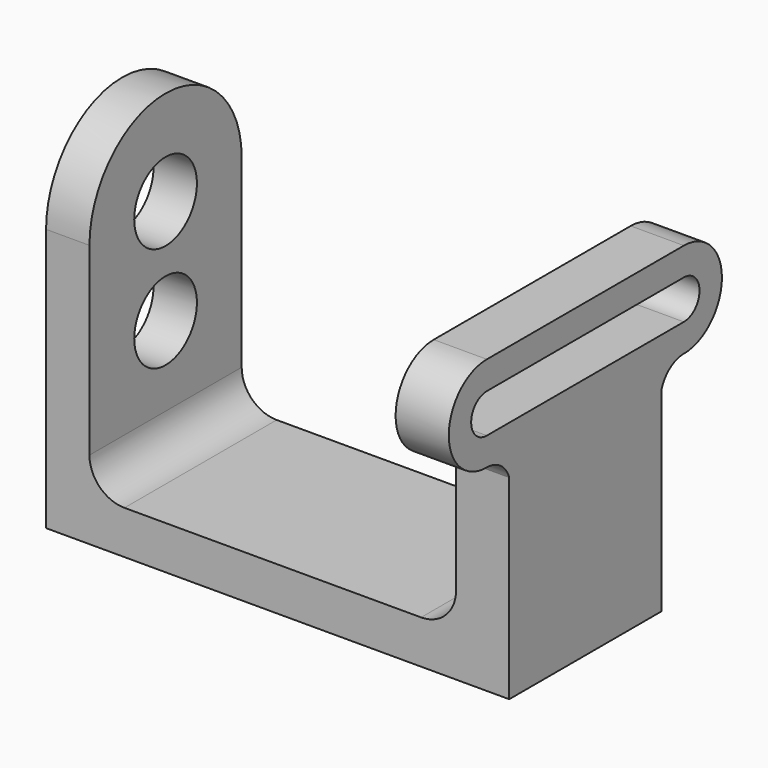
from build123d import *

# Parameters (mm, degrees)
F1_DEPTH = 34.544
F2_W     = 34.544
F2_H     = 3.556
F3_DEPTH = 9.652
F4_DEPTH = 9.652
F6_DEPTH = 7.874
F5_R     = 7.112
F7_DEPTH = 7.874


with BuildPart() as f1:
    # F0 (on Front) → F1 (new body)
    with BuildSketch(Plane.XZ):
        with BuildLine():
            Line((0, 47.752), (0, 0))
            Line((0, 0), (84.074, 0))
            Line((84.074, 0), (84.074, 47.752))
            Line((84.074, 47.752), (74.422, 47.752))
            Line((74.422, 47.752), (74.422, 14.224))
            ThreePointArc((74.422, 14.224), (72.562128, 9.733872), (68.072, 7.874))
            Line((68.072, 7.874), (14.224, 7.874))
            ThreePointArc((14.224, 7.874), (9.733872, 9.733872), (7.874, 14.224))
            Line((7.874, 14.224), (7.874, 47.752))
            Line((7.874, 47.752), (0, 47.752))
        make_face()
    extrude(amount=F1_DEPTH)

    # F2 (on face) → F3 (cut)
    with BuildSketch(Plane.YZ.offset(84.074)):
        with Locations((-17.272, 45.974)):
            Rectangle(F2_W, F2_H)
        with BuildLine():
            Line((-34.544, 44.196), (-39.624, 44.196))
            ThreePointArc((-39.624, 44.196), (-43.18, 47.752), (-39.624, 51.308))
            Line((-39.624, 51.308), (5.08, 51.308))
            ThreePointArc((5.08, 51.308), (8.636, 47.752), (5.08, 44.196))
            Line((5.08, 44.196), (0, 44.196))
            Line((0, 44.196), (0, 39.116))
            Line((0, 39.116), (5.08, 39.116))
            ThreePointArc((5.08, 39.116), (13.716, 47.752), (5.08, 56.388))
            Line((5.08, 56.388), (-39.624, 56.388))
            ThreePointArc((-39.624, 56.388), (-48.26, 47.752), (-39.624, 39.116))
            Line((-39.624, 39.116), (-34.544, 39.116))
            Line((-34.544, 39.116), (-34.544, 44.196))
        make_face()
    extrude(amount=-F3_DEPTH, mode=Mode.SUBTRACT)

    # F2 (on face) → F4 (join)
    with BuildSketch(Plane.YZ.offset(84.074)):
        with BuildLine():
            Line((-34.544, 44.196), (-39.624, 44.196))
            ThreePointArc((-39.624, 44.196), (-43.18, 47.752), (-39.624, 51.308))
            Line((-39.624, 51.308), (5.08, 51.308))
            ThreePointArc((5.08, 51.308), (8.636, 47.752), (5.08, 44.196))
            Line((5.08, 44.196), (0, 44.196))
            Line((0, 44.196), (0, 39.116))
            Line((0, 39.116), (5.08, 39.116))
            ThreePointArc((5.08, 39.116), (13.716, 47.752), (5.08, 56.388))
            Line((5.08, 56.388), (-39.624, 56.388))
            ThreePointArc((-39.624, 56.388), (-48.26, 47.752), (-39.624, 39.116))
            Line((-39.624, 39.116), (-34.544, 39.116))
            Line((-34.544, 39.116), (-34.544, 44.196))
        make_face()
        with BuildLine():
            Line((-34.544, 44.196), (-39.624, 44.196))
            ThreePointArc((-39.624, 44.196), (-43.18, 47.752), (-39.624, 51.308))
            Line((-39.624, 51.308), (5.08, 51.308))
            ThreePointArc((5.08, 51.308), (8.636, 47.752), (5.08, 44.196))
            Line((5.08, 44.196), (0, 44.196))
            Line((0, 44.196), (0, 39.116))
            Line((0, 39.116), (5.08, 39.116))
            ThreePointArc((5.08, 39.116), (13.716, 47.752), (5.08, 56.388))
            Line((5.08, 56.388), (-39.624, 56.388))
            ThreePointArc((-39.624, 56.388), (-48.26, 47.752), (-39.624, 39.116))
            Line((-39.624, 39.116), (-34.544, 39.116))
            Line((-34.544, 39.116), (-34.544, 44.196))
        make_face()
        with BuildLine():
            Line((-34.544, 35.408394), (-34.544, 39.116))
            Line((-34.544, 39.116), (-39.624, 39.116))
            ThreePointArc((-39.624, 39.116), (-36.479451, 38.090523), (-34.544, 35.408394))
        make_face()
        with BuildLine():
            Line((5.08, 39.116), (0, 39.116))
            Line((0, 39.116), (0, 35.408394))
            ThreePointArc((0, 35.408394), (1.935451, 38.090523), (5.08, 39.116))
        make_face()
    extrude(amount=-F4_DEPTH)

    # F5 (on face) → F6 (join)
    with BuildSketch(Plane(origin=(0, 0, 0), x_dir=(0, -1, 0), z_dir=(-1, 0, 0))):
        with BuildLine():
            Line((24.384, 47.752), (34.544, 47.752))
            ThreePointArc((34.544, 47.752), (17.272, 65.024), (0, 47.752))
            Line((0, 47.752), (10.16, 47.752))
            ThreePointArc((10.16, 47.752), (17.272, 54.864), (24.384, 47.752))
        make_face()
    extrude(amount=-F6_DEPTH)

    # F5 (on face) → F7 (cut)
    with BuildSketch(Plane(origin=(0, 0, 0), x_dir=(0, -1, 0), z_dir=(-1, 0, 0))):
        with Locations((17.272, 47.752)):
            Circle(F5_R)
        with Locations((17.272, 28.702)):
            Circle(F5_R)
    extrude(amount=-F7_DEPTH, mode=Mode.SUBTRACT)


solid = f1.part
